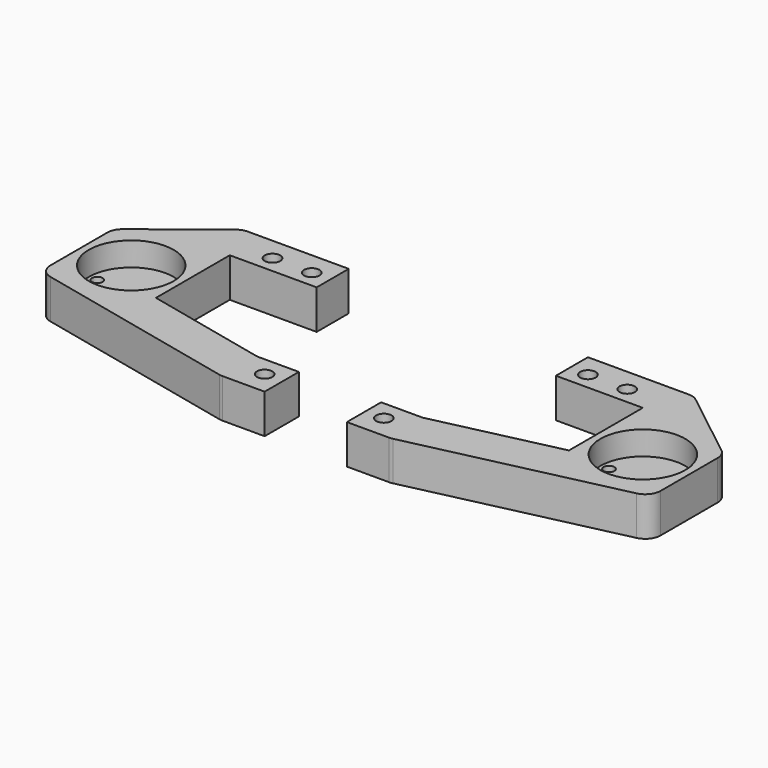
from build123d import *

# Parameters (mm, degrees)
F0_R     = 2.5
F0_R_2   = 13.75
F1_DEPTH = 12.73
F0_R_3   = 4.5
F0_R_4   = 1.75
F2_DEPTH = 5
F3_R     = 5


with BuildPart() as f1:
    # F0 (on Top) → F1 (new body)
    with BuildSketch(Plane.XY):
        with BuildLine():
            Line((-22.19, -35.433535), (-22.19, -25.46))
            ThreePointArc((-22.19, -25.46), (-38.19, -41.46), (-54.19, -25.46))
            Line((-54.19, -25.46), (-54.19, -42.238321))
            Line((-54.19, -42.238321), (17.19, -58.42))
            Line((17.19, -58.42), (31.46, -58.42))
            Line((31.46, -58.42), (31.46, -44.533967))
            Line((31.46, -44.533967), (17.953478, -44.533967))
            Line((17.953478, -44.533967), (-22.19, -35.433535))
        make_face()
        with Locations((25.46, -50.92)):
            Circle(F0_R, mode=Mode.SUBTRACT)
        with BuildLine():
            Line((6, -5.5), (6, 5.5))
            Line((6, 5.5), (6, 7.5))
            Line((6, 7.5), (-28.423662, 7.5))
            Line((-28.423662, 7.5), (-54.19, -12.73))
            Line((-54.19, -12.73), (-54.19, -25.46))
            ThreePointArc((-54.19, -25.46), (-38.19, -9.46), (-22.19, -25.46))
            Line((-22.19, -25.46), (-22.19, -5.5))
            Line((-22.19, -5.5), (6, -5.5))
        make_face()
        with Locations((-12.73, 0)):
            Circle(F0_R, mode=Mode.SUBTRACT)
        Circle(F0_R, mode=Mode.SUBTRACT)
        with BuildLine():
            ThreePointArc((-54.19, -25.46), (-38.19, -41.46), (-22.19, -25.46))
            ThreePointArc((-22.19, -25.46), (-38.19, -9.46), (-54.19, -25.46))
        make_face()
        with Locations((-38.19, -25.46)):
            Circle(F0_R_2, mode=Mode.SUBTRACT)
    extrude(amount=F1_DEPTH)

    # F0 (on Top) → F2 (join)
    with BuildSketch(Plane.XY):
        with Locations((-38.19, -25.46)):
            Circle(F0_R_2)
        with Locations((-38.19, -29.96)):
            Circle(F0_R_3, mode=Mode.SUBTRACT)
        with Locations((-49.19, -25.46)):
            Circle(F0_R_4, mode=Mode.SUBTRACT)
        with Locations((-27.19, -25.46)):
            Circle(F0_R_4, mode=Mode.SUBTRACT)
    extrude(amount=F2_DEPTH)

    # F3
    f3_edges = [f1.edges().sort_by_distance(p)[0] for p in [
        (17.19, -58.42, 6.365),
        (-54.19, -42.238321, 6.365),
        (-54.19, -12.73, 6.365),
        (-28.423662, 7.5, 6.365),
    ]]
    fillet(f3_edges, radius=F3_R)


with BuildPart() as f1_1:
    # F4: moved
    add(f1.part.moved(Location((-44.8, 0, 0))))


with BuildPart() as f5_1:
    # F5: instance of F1
    add(f1_1.part.mirror(Plane.YZ))


solid = Compound([f1_1.part, f5_1.part])
